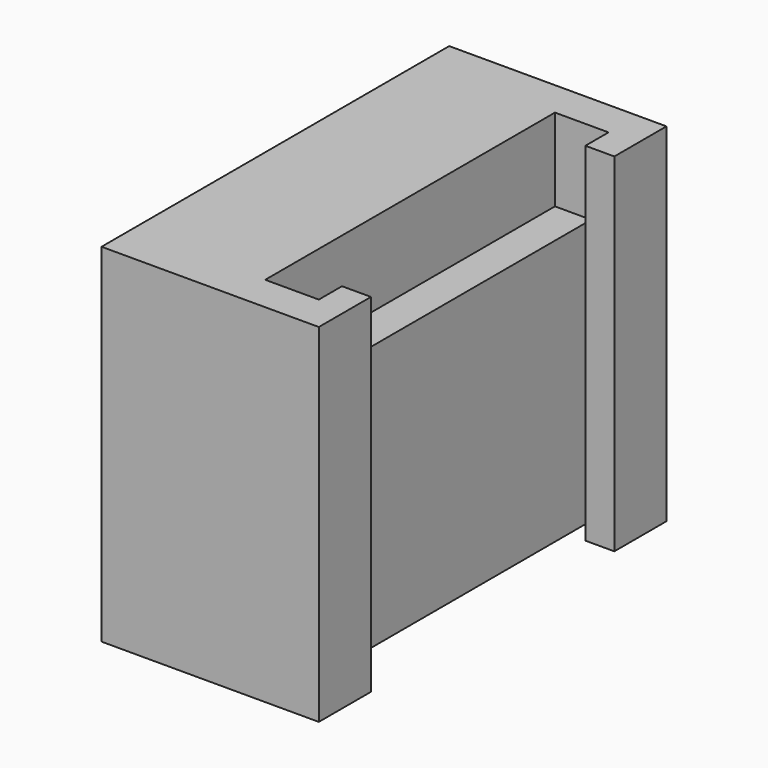
from build123d import *

# Parameters (mm, degrees)
F0_W     = 15
F0_H     = 24
F1_DEPTH = 30
F2_W     = 1.2
F2_H     = 25
F3_DEPTH = 24.001
F4_W     = 2
F4_H     = 21
F5_DEPTH = 24.001
F6_W     = 2.5
F6_H     = 25
F7_DEPTH = 5.7


with BuildPart() as f1:
    # F0 (on Front) → F1 (new body)
    with BuildSketch(Plane.XZ):
        with Locations((7.5, 12)):
            Rectangle(F0_W, F0_H)
    extrude(amount=F1_DEPTH)

    # F2 (on face) → F3 (cut, through all)
    with BuildSketch(Plane.XY.offset(24)):
        with Locations((12.4, -15)):
            Rectangle(F2_W, F2_H)
    extrude(amount=-F3_DEPTH, mode=Mode.SUBTRACT)

    # F4 (on face) → F5 (cut, through all)
    with BuildSketch(Plane.XY.offset(24)):
        with Locations((14, -15)):
            Rectangle(F4_W, F4_H)
    extrude(amount=-F5_DEPTH, mode=Mode.SUBTRACT)

    # F6 (on face) → F7 (cut)
    with BuildSketch(Plane.XY.offset(24)):
        with Locations((10.55, -15)):
            Rectangle(F6_W, F6_H)
    extrude(amount=-F7_DEPTH, mode=Mode.SUBTRACT)


solid = f1.part
